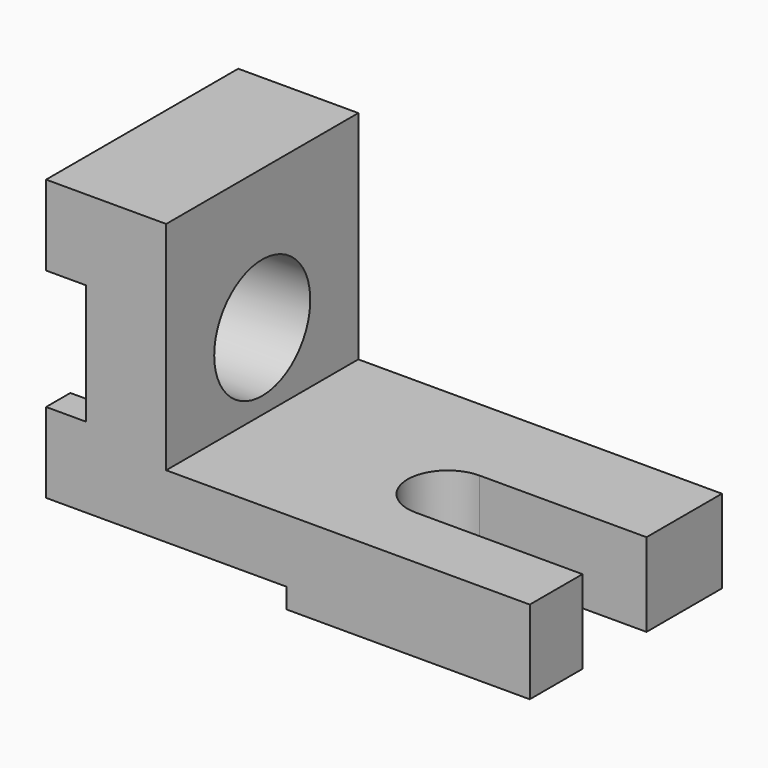
from build123d import *

# Parameters (mm, degrees)
F0_W      = 145
F0_H      = 72
F1_DEPTH  = 90
F2_W      = 109
F2_H      = 65
F3_DEPTH  = 90
F5_DEPTH  = 25.4
F6_W      = 50
F6_H      = 6
F7_DEPTH  = 72
F9_DEPTH  = 12
F10_R     = 18
F11_DEPTH = 24


with BuildPart() as f1:
    # F0 (on Top) → F1 (new body)
    with BuildSketch(Plane.XY):
        with Locations((-72.5, 36)):
            Rectangle(F0_W, F0_H)
    extrude(amount=F1_DEPTH)

    # F2 (on face) → F3 (cut)
    with BuildSketch(Plane.XZ):
        with Locations((-54.5, 57.5)):
            Rectangle(F2_W, F2_H)
    extrude(amount=-F3_DEPTH, mode=Mode.SUBTRACT)

    # F4 (on face) → F5 (cut)
    with BuildSketch(Plane.XY.offset(25)):
        with BuildLine():
            Line((-50, 19.744541496), (0, 19.744541496))
            Line((0, 19.744541496), (0, 43.744541496))
            Line((0, 43.744541496), (-50, 43.744541496))
            ThreePointArc((-50, 43.744541496), (-62, 31.744541496), (-50, 19.744541496))
        make_face()
    extrude(amount=-F5_DEPTH, mode=Mode.SUBTRACT)

    # F6 (on face) → F7 (cut)
    with BuildSketch(Plane(origin=(-145, 0, 0), x_dir=(0, -1, 0), z_dir=(-1, 0, 0))):
        with Locations((-25, 3)):
            Rectangle(F6_W, F6_H)
    extrude(amount=-F7_DEPTH, mode=Mode.SUBTRACT)

    # F8 (on face) → F9 (cut)
    with BuildSketch(Plane(origin=(-145, 0, 0), x_dir=(0, -1, 0), z_dir=(-1, 0, 0))):
        with BuildLine():
            ThreePointArc((-62.9122615735, 30), (-68.3769952744, 48), (-62.9122615735, 66))
            Line((-62.9122615735, 66), (-72, 66))
            Line((-72, 66), (-72, 30))
            Line((-72, 30), (-62.9122615735, 30))
        make_face()
        with BuildLine():
            Line((-62.9122615735, 66), (-9.0877384265, 66))
            ThreePointArc((-9.0877384265, 66), (-36, 80.3769952744), (-62.9122615735, 66))
        make_face()
        with BuildLine():
            ThreePointArc((-9.0877384265, 66), (-5.0192964187, 57.4056274966), (-3.6230047256, 48))
            ThreePointArc((-3.6230047256, 48), (-5.0192964187, 38.5943725034), (-9.0877384265, 30))
            Line((-9.0877384265, 30), (0, 30))
            Line((0, 30), (0, 66))
            Line((0, 66), (-9.0877384265, 66))
        make_face()
        with BuildLine():
            ThreePointArc((-62.9122615735, 30), (-36, 15.6230047256), (-9.0877384265, 30))
            Line((-9.0877384265, 30), (-62.9122615735, 30))
        make_face()
        with BuildLine():
            ThreePointArc((-9.0877384265, 30), (-5.0192964187, 38.5943725034), (-3.6230047256, 48))
            ThreePointArc((-3.6230047256, 48), (-5.0192964187, 57.4056274966), (-9.0877384265, 66))
            Line((-9.0877384265, 66), (-62.9122615735, 66))
            ThreePointArc((-62.9122615735, 66), (-68.3769952744, 48), (-62.9122615735, 30))
            Line((-62.9122615735, 30), (-9.0877384265, 30))
        make_face()
    extrude(amount=-F9_DEPTH, mode=Mode.SUBTRACT)

    # F10 (on face) → F11 (cut, through all)
    with BuildSketch(Plane(origin=(-133, 0, 0), x_dir=(0, -1, 0), z_dir=(-1, 0, 0))):
        with Locations((-36, 48)):
            Circle(F10_R)
    extrude(amount=-F11_DEPTH, mode=Mode.SUBTRACT)


solid = f1.part
